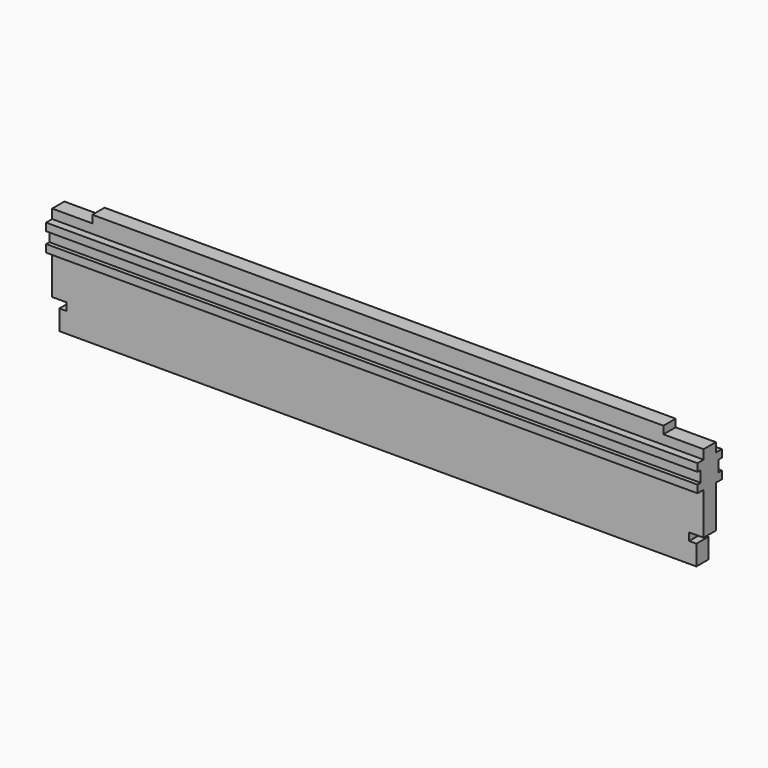
from build123d import *

# Parameters (mm, degrees)
F1_DEPTH = 19
F3_DEPTH = 811


with BuildPart() as f1:
    # F0 (on Front) → F1 (new body, symmetric)
    with BuildSketch(Plane.XZ):
        Polygon((711, 0), (0, 0), (-711, 0), (-711, -19), (-811, -19), (-811, -213), (-775, -213), (-775, -232), (-793, -232), (-793, -282), (0, -282), (793, -282), (793, -232), (775, -232), (775, -213), (811, -213), (811, -19), (711, -19), align=None)
    extrude(amount=F1_DEPTH, both=True)

    # F2 (on Right) → F3 (join, symmetric)
    with BuildSketch(Plane.YZ):
        Polygon((38, -42), (-38, -42), (-38, -61), (-28, -61), (-28, -89), (-38, -89), (-38, -108), (38, -108), (38, -89), (28, -89), (28, -61), (38, -61), align=None)
    extrude(amount=F3_DEPTH, both=True)


solid = f1.part
